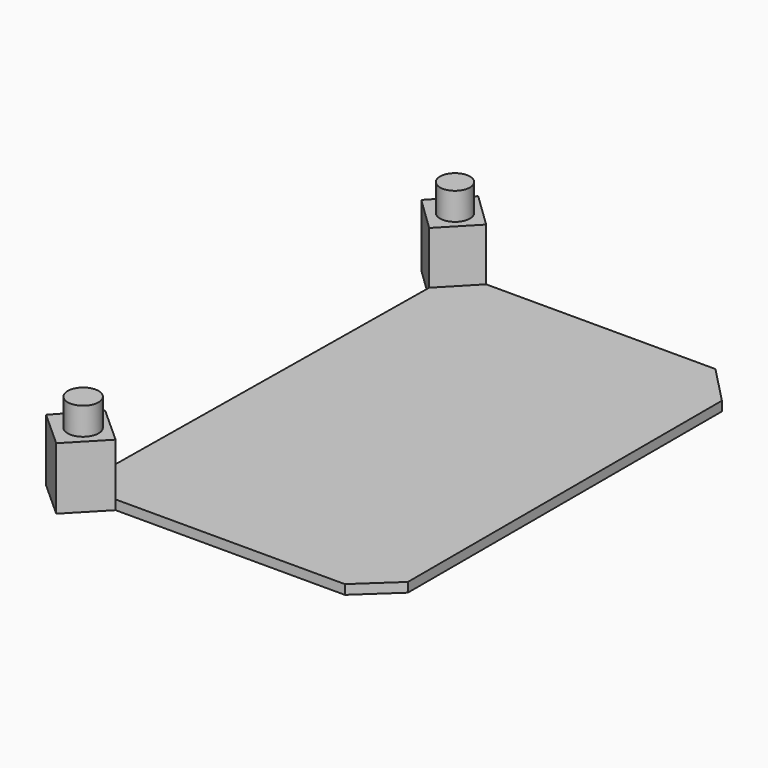
from build123d import *

# Parameters (mm, degrees)
F1_DEPTH = 2.286
F0_R     = 3.609475
F0_R_2   = 3.720562
F2_DEPTH = 14.986
F3_DEPTH = 21.59


with BuildPart() as f1:
    # F0 (on Top) → F1 (new body)
    with BuildSketch(Plane.XY):
        Polygon((36.545925, 46.772763), (27.516532, 56.097239), (-27.823025, 56.097239), (-35.342764, 48.298985), (-36.545925, -47.97592), (-27.516532, -56.097239), (27.823025, -56.097239), (36.545925, -47.97592), align=None)
    extrude(amount=F1_DEPTH)

    # F0 (on Top) → F2 (join)
    with BuildSketch(Plane.XY):
        Polygon((-35.342764, 48.298985), (-27.823025, 56.097239), (-36.245134, 64.218551), (-43.653179, 56.312592), align=None)
        with Locations((-35.342764, 56.097239)):
            Circle(F0_R, mode=Mode.SUBTRACT)
        Polygon((-27.516532, -56.097239), (-36.545925, -47.97592), (-44.083779, -56.356608), (-35.342764, -64.218551), align=None)
        with Locations((-35.342764, -56.097239)):
            Circle(F0_R_2, mode=Mode.SUBTRACT)
    extrude(amount=F2_DEPTH)

    # F0 (on Top) → F3 (join)
    with BuildSketch(Plane.XY):
        with Locations((-35.342764, 56.097239)):
            Circle(F0_R)
        with Locations((-35.342764, -56.097239)):
            Circle(F0_R_2)
    extrude(amount=F3_DEPTH)


solid = f1.part
